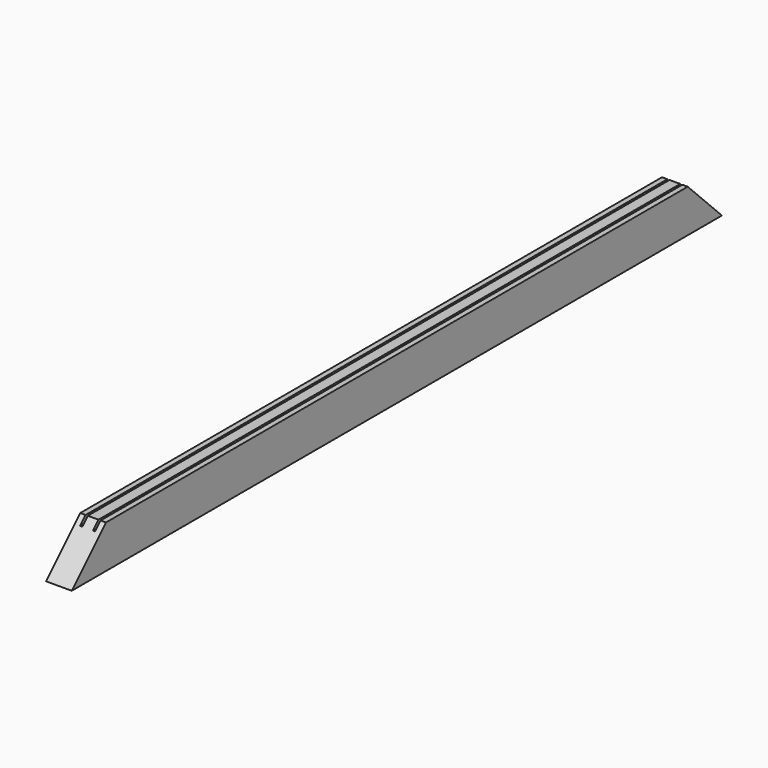
from build123d import *

# Parameters (mm, degrees)
F1_DEPTH = 603.25
F3_DEPTH = 38.101


with BuildPart() as f1:
    # F0 (on Front) → F1 (new body, symmetric)
    with BuildSketch(Plane.XZ):
        Polygon((-19.05, -31.75), (19.05, -31.75), (19.05, 31.75), (11.1125, 31.75), (11.1125, 21.59), (7.9375, 21.59), (7.9375, 31.75), (-7.9375, 31.75), (-7.9375, 21.59), (-11.1125, 21.59), (-11.1125, 31.75), (-19.05, 31.75), align=None)
    extrude(amount=F1_DEPTH, both=True)

    # F2 (on face) → F3 (cut, through all)
    with BuildSketch(Plane(origin=(-19.05, 0, 0), x_dir=(0, -1, 0), z_dir=(-1, 0, 0))):
        Polygon((539.75, 31.75), (603.25, -31.75), (603.25, 31.75), align=None)
        Polygon((-603.25, 31.75), (-603.25, -31.75), (-539.75, 31.75), align=None)
    extrude(amount=-F3_DEPTH, mode=Mode.SUBTRACT)


solid = f1.part
